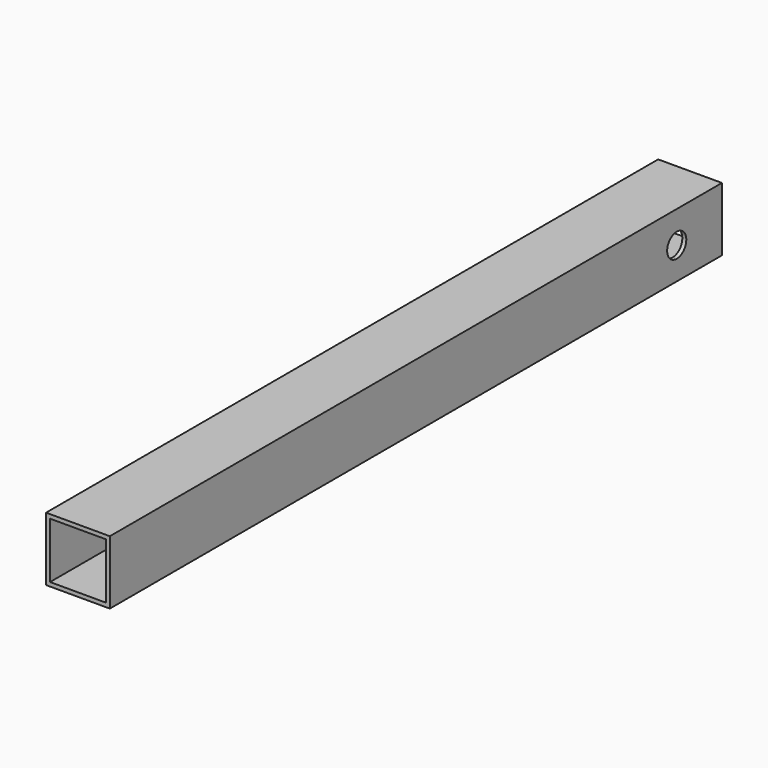
from build123d import *

# Parameters (mm, degrees)
F0_W     = 25.4
F0_H     = 304.8
F1_DEPTH = 25.4
F2_T     = -1.5875
F4_D     = 9.525


with BuildPart() as f1:
    # F0 (on Top) → F1 (new body)
    with BuildSketch(Plane.XY):
        Rectangle(F0_W, F0_H)
    extrude(amount=F1_DEPTH)

    # F2
    f2_openings = [f1.faces().sort_by_distance(p)[0] for p in [
        (0, -152.4, 12.7),
        (0, 152.4, 12.7),
    ]]
    offset(amount=F2_T, openings=f2_openings)

    # F4 (through all)
    with Locations(Plane.YZ.offset(12.7)):
        with Locations((129.890323, 12.7)):
            Hole(F4_D / 2)


solid = f1.part
